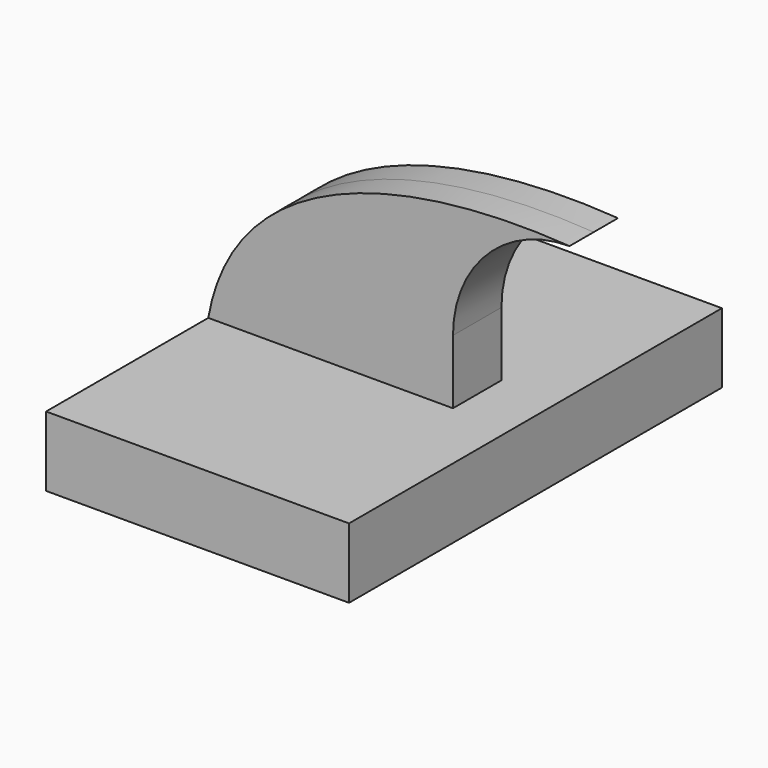
from build123d import *

# Parameters (mm, degrees)
F1_DEPTH = 63.5
F2_DEPTH = 8.255


with BuildPart() as f1:
    # F0 (on Front) → F1 (new body, symmetric)
    with BuildSketch(Plane.XZ):
        Polygon((25.4, 9.523159), (-41.275, 9.523159), (-41.275, -9.526841), (41.275, -9.526841), (41.275, 9.523159), align=None)
    extrude(amount=F1_DEPTH, both=True)

    # F0 (on Front) → F2 (join, symmetric)
    with BuildSketch(Plane.XZ):
        with BuildLine():
            add(Edge.make_bspline(
                [(-41.275, 9.523159), (-34.358993, 49.088161), (10.33712, 61.945949), (57.15, 58.748359)],
                knots=[0, 0, 0, 0, 110.048176, 110.048176, 110.048176, 110.048176], degree=3))
            Line((-41.275, 9.523159), (25.4, 9.523159))
            Line((25.4, 9.523159), (25.4, 11.788465))
            Line((25.4, 11.788465), (25.4, 26.998359))
            ThreePointArc((25.4, 26.998359), (34.69936, 49.448999), (57.15, 58.748359))
        make_face()
    extrude(amount=F2_DEPTH, both=True)


solid = f1.part
